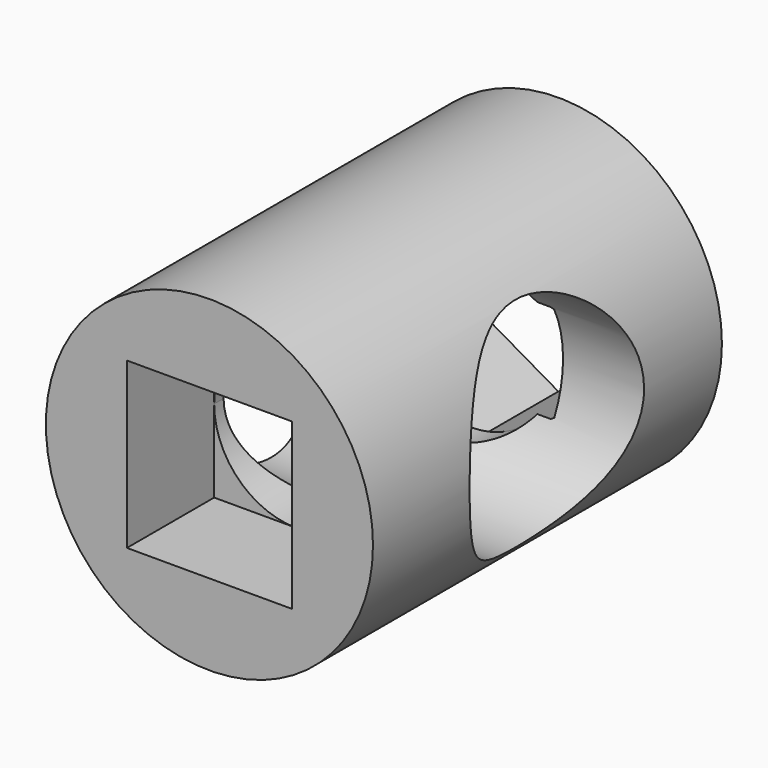
from build123d import *

# Parameters (mm, degrees)
F0_R     = 38.1
F1_DEPTH = 101.6
F2_DEPTH = 101.601
F3_DEPTH = 25.4
F5_DEPTH = 25.4
F6_R     = 25.4
F7_DEPTH = 38.1


with BuildPart() as f1:
    # F0 (on Front) → F1 (new body)
    with BuildSketch(Plane.XZ):
        Circle(F0_R)
        Polygon((3.91e-08, -19.2176233977), (-19.2176233977, -19.2176233977), (-19.2176233977, 0), (-19.2176233977, 19.2176233977), (2.72e-08, 19.2176233977), (19.2176233977, 19.2176233977), (19.2176233977, 0), (19.2176233977, -19.2176233977), align=None, mode=Mode.SUBTRACT)
        with BuildLine():
            ThreePointArc((2.72e-08, 19.2176233977), (13.5889118324, 13.5889118132), (19.2176233977, 0))
            Line((19.2176233977, 0), (19.2176233977, 19.2176233977))
            Line((19.2176233977, 19.2176233977), (2.72e-08, 19.2176233977))
        make_face()
        with BuildLine():
            ThreePointArc((-19.2176233977, 0), (-13.588911809, -13.5889118366), (3.91e-08, -19.2176233977))
            ThreePointArc((3.91e-08, -19.2176233977), (13.5889118366, -13.588911809), (19.2176233977, 0))
            ThreePointArc((19.2176233977, 0), (13.5889118324, 13.5889118132), (2.72e-08, 19.2176233977))
            ThreePointArc((2.72e-08, 19.2176233977), (-13.5889118132, 13.5889118324), (-19.2176233977, 0))
        make_face()
        with BuildLine():
            Line((-19.2176233977, 19.2176233977), (-19.2176233977, 0))
            ThreePointArc((-19.2176233977, 0), (-13.5889118132, 13.5889118324), (2.72e-08, 19.2176233977))
            Line((2.72e-08, 19.2176233977), (-19.2176233977, 19.2176233977))
        make_face()
        with BuildLine():
            Line((-19.2176233977, 0), (-19.2176233977, -19.2176233977))
            Line((-19.2176233977, -19.2176233977), (3.91e-08, -19.2176233977))
            ThreePointArc((3.91e-08, -19.2176233977), (-13.588911809, -13.5889118366), (-19.2176233977, 0))
        make_face()
        with BuildLine():
            ThreePointArc((19.2176233977, 0), (13.5889118366, -13.588911809), (3.91e-08, -19.2176233977))
            Line((3.91e-08, -19.2176233977), (19.2176233977, -19.2176233977))
            Line((19.2176233977, -19.2176233977), (19.2176233977, 0))
        make_face()
    extrude(amount=-F1_DEPTH)

    # F0 (on Front) → F2 (cut, through all)
    with BuildSketch(Plane.XZ):
        with BuildLine():
            ThreePointArc((-19.2176233977, 0), (-13.588911809, -13.5889118366), (3.91e-08, -19.2176233977))
            ThreePointArc((3.91e-08, -19.2176233977), (13.5889118366, -13.588911809), (19.2176233977, 0))
            ThreePointArc((19.2176233977, 0), (13.5889118324, 13.5889118132), (2.72e-08, 19.2176233977))
            ThreePointArc((2.72e-08, 19.2176233977), (-13.5889118132, 13.5889118324), (-19.2176233977, 0))
        make_face()
    extrude(amount=-F2_DEPTH, mode=Mode.SUBTRACT)

    # F0 (on Front) → F3 (cut)
    with BuildSketch(Plane.XZ):
        with BuildLine():
            ThreePointArc((19.2176233977, 0), (13.5889118366, -13.588911809), (3.91e-08, -19.2176233977))
            Line((3.91e-08, -19.2176233977), (19.2176233977, -19.2176233977))
            Line((19.2176233977, -19.2176233977), (19.2176233977, 0))
        make_face()
        with BuildLine():
            Line((-19.2176233977, 0), (-19.2176233977, -19.2176233977))
            Line((-19.2176233977, -19.2176233977), (3.91e-08, -19.2176233977))
            ThreePointArc((3.91e-08, -19.2176233977), (-13.588911809, -13.5889118366), (-19.2176233977, 0))
        make_face()
        with BuildLine():
            Line((-19.2176233977, 19.2176233977), (-19.2176233977, 0))
            ThreePointArc((-19.2176233977, 0), (-13.5889118132, 13.5889118324), (2.72e-08, 19.2176233977))
            Line((2.72e-08, 19.2176233977), (-19.2176233977, 19.2176233977))
        make_face()
        with BuildLine():
            ThreePointArc((2.72e-08, 19.2176233977), (13.5889118324, 13.5889118132), (19.2176233977, 0))
            Line((19.2176233977, 0), (19.2176233977, 19.2176233977))
            Line((19.2176233977, 19.2176233977), (2.72e-08, 19.2176233977))
        make_face()
    extrude(amount=-F3_DEPTH, mode=Mode.SUBTRACT)

    # F4 (on face) → F5 (cut)
    with BuildSketch(Plane(origin=(0, 101.6, 0), x_dir=(-1, 0, 0), z_dir=(0, 1, 0))):
        Polygon((-19.2176233977, 11.0953000419), (-19.2176233977, -11.0953000419), (0, -22.1906000837), (19.2176233977, -11.0953000419), (19.2176233977, 11.0953000419), (0, 22.1906000837), align=None)
    extrude(amount=-F5_DEPTH, mode=Mode.SUBTRACT)

    # F6 (on Right) → F7 (cut, symmetric)
    with BuildSketch(Plane.YZ):
        with Locations((53.5429239203, 0)):
            Circle(F6_R)
    extrude(amount=F7_DEPTH, both=True, mode=Mode.SUBTRACT)


solid = f1.part
